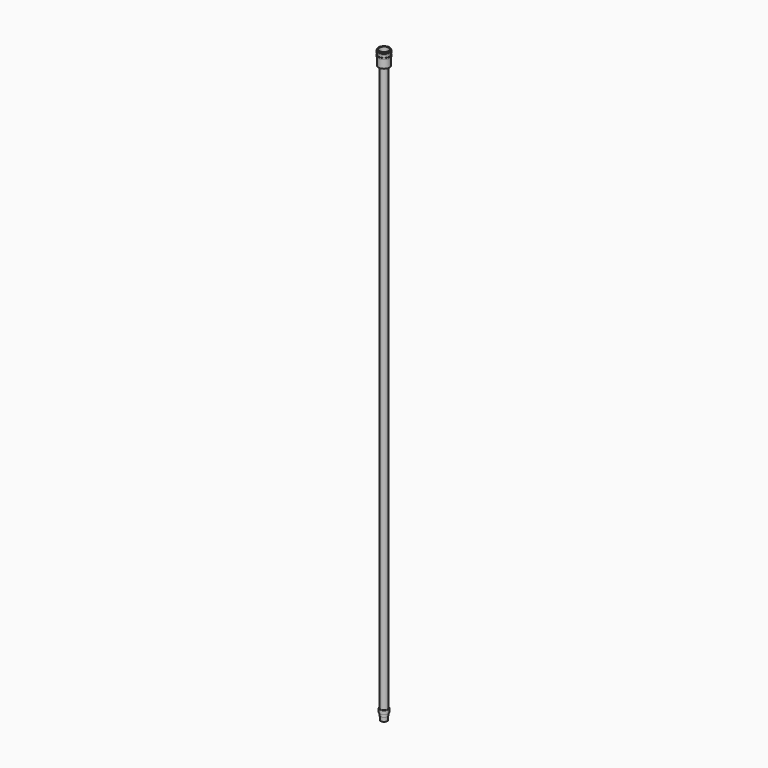
from build123d import *

# Parameters (mm, degrees)
CYLINDER008_R              = 4
CYLINDER008_DEPTH          = 620
REVOLVE006_PLACEMENT_ANGLE = 180
CYLINDER009_R              = 5
CYLINDER009_DEPTH          = 30
REVOLVE007_PLACEMENT_ANGLE = 180


with BuildPart() as cylinder008:
    # Cylinder008 → Cylinder008 (new body)
    with BuildSketch(Plane.XY):
        Circle(CYLINDER008_R)
    extrude(amount=CYLINDER008_DEPTH)


with BuildPart() as revolve006:
    # Sketch006 → Revolve006 (revolve)
    with BuildSketch(Plane.XZ):
        Polygon((0, 0), (0, 4), (4, 4), (4, 7), (1, 7), (1, 11.5), (3.5, 11.5), (3.5, 7), (0.5, 7), (0.5, 4), (4.5, 4), (4.5, 0), align=None)
    revolve(axis=Axis((0, 0, 0), (0, 0, 1)))


with BuildPart() as revolve006_1:
    # Revolve006 placement: moved
    add(revolve006.part.rotate(Axis((0, 0, 0), (0, 1, 0)), REVOLVE006_PLACEMENT_ANGLE))


with BuildPart() as cylinder009:
    # Cylinder009 → Cylinder009 (new body)
    with BuildSketch(Plane.XY.offset(618)):
        Circle(CYLINDER009_R)
    extrude(amount=CYLINDER009_DEPTH)


with BuildPart() as straw003:
    # Sketch007 → Revolve007 (revolve)
    with BuildSketch(Plane.YZ):
        Polygon((0, 0), (0, 1), (-0.5, 1), (-0.5, 2.5), (0, 2.5), (0, 5), (-0.5, 5), (-0.5, 6.5), (0, 6.5), (0, 15.5), (6, 15.5), (6, 6.5), (6.5, 6.5), (6.5, 5), (6, 5), (6, 2.5), (6.5, 2.5), (6.5, 1), (6, 1), (6, 0), align=None)
    revolve(axis=Axis((0, 0, 0), (0, 0, 1)))


with BuildPart() as straw003_1:
    # Revolve007 placement: moved
    add(straw003.part.moved(Location((0, 0, 631.5))).rotate(Axis((0, 0, 631.5), (1, 0, 0)), REVOLVE007_PLACEMENT_ANGLE))

    # Cut006: cut Cylinder009
    add(cylinder009.part, mode=Mode.SUBTRACT)

    # Fusion003: union Cylinder008, Revolve006
    add(cylinder008.part)
    add(revolve006_1.part)


with BuildPart() as straw003_2:
    # Fusion003 placement: moved
    add(straw003_1.part.moved(Location((0, 0, -42))))


solid = straw003_2.part
